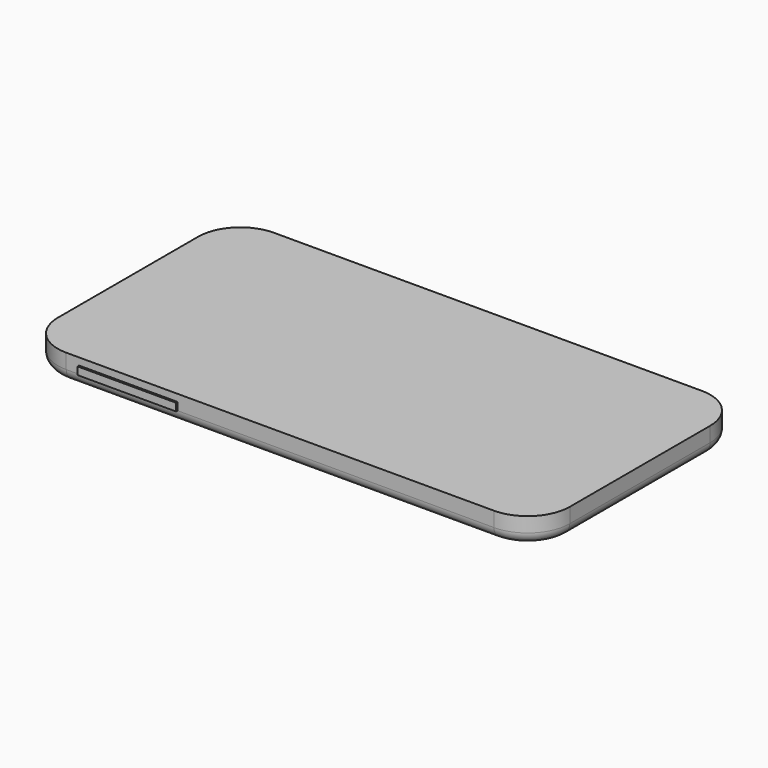
from build123d import *

# Parameters (mm, degrees)
F0_W     = 138
F0_H     = 70
F1_DEPTH = 7
F2_R     = 11.346804
F3_R     = 3
F4_W     = 26.570709
F4_H     = 2.072412
F5_DEPTH = 0.5
F6_W     = 13.949622
F6_H     = 2.113027
F7_DEPTH = 0.5


with BuildPart() as f1:
    # F0 (on Top) → F1 (new body)
    with BuildSketch(Plane.XY):
        Rectangle(F0_W, F0_H)
    extrude(amount=F1_DEPTH)

    # F2
    f2_edges = [f1.edges().sort_by_distance(p)[0] for p in [
        (69, -35, 3.5),
        (69, 35, 3.5),
        (-69, -35, 3.5),
        (-69, 35, 3.5),
    ]]
    fillet(f2_edges, radius=F2_R)

    # F3
    f3_edges = [f1.edges().sort_by_distance(p)[0] for p in [
        (0, 35, 0),
        (0, -35, 0),
        (-69, 0, 0),
        (69, 0, 0),
    ]]
    fillet(f3_edges, radius=F3_R)

    # F4 (on face) → F5 (join)
    with BuildSketch(Plane.XZ.offset(35)):
        with Locations((-40.915458, 4.036206)):
            Rectangle(F4_W, F4_H)
    extrude(amount=F5_DEPTH)

    # F6 (on face) → F7 (join)
    with BuildSketch(Plane(origin=(0, 35, 0), x_dir=(-1, 0, 0), z_dir=(0, 1, 0))):
        with Locations((29.512195, 4.056513)):
            Rectangle(F6_W, F6_H)
    extrude(amount=F7_DEPTH)


solid = f1.part
